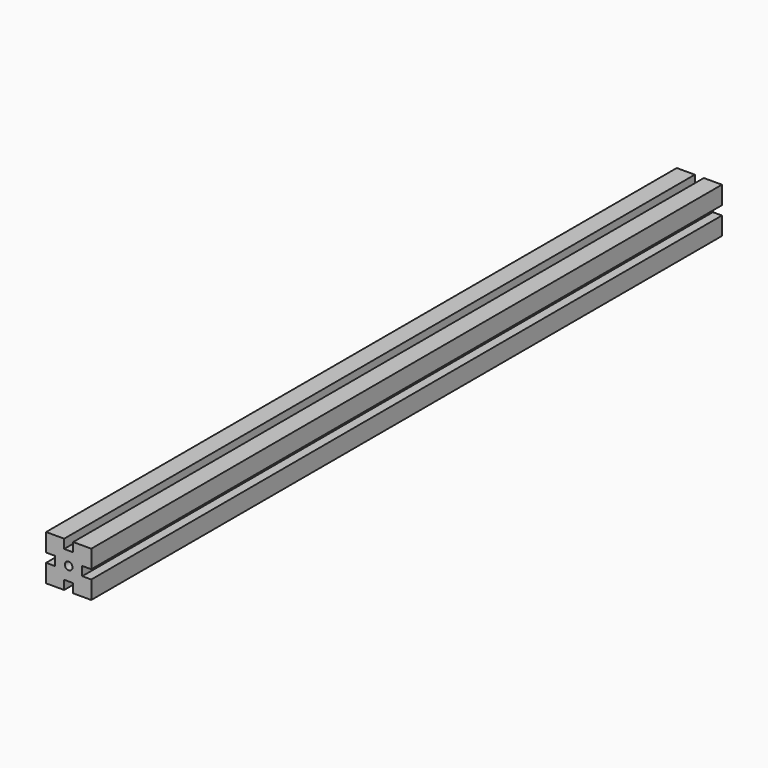
from build123d import *

# Parameters (mm, degrees)
F0_R     = 3.4
F1_DEPTH = 698


with BuildPart() as f1:
    # F0 (on Front) → F1 (new body)
    with BuildSketch(Plane.XZ):
        Polygon((20, 3.985873), (20, 20), (4, 20), (4, 12), (-4, 12), (-4, 20), (-20, 20), (-20, 4), (-12, 4), (-12, -4), (-20, -4), (-20, -20), (-3.971838, -20), (-3.971838, -12.020925), (4.028162, -12.020925), (4.028162, -20), (20, -20), (20, -4.014127), (12.01374, -4.014127), (12.01374, 3.985873), align=None)
        Circle(F0_R, mode=Mode.SUBTRACT)
    extrude(amount=F1_DEPTH)


solid = f1.part
